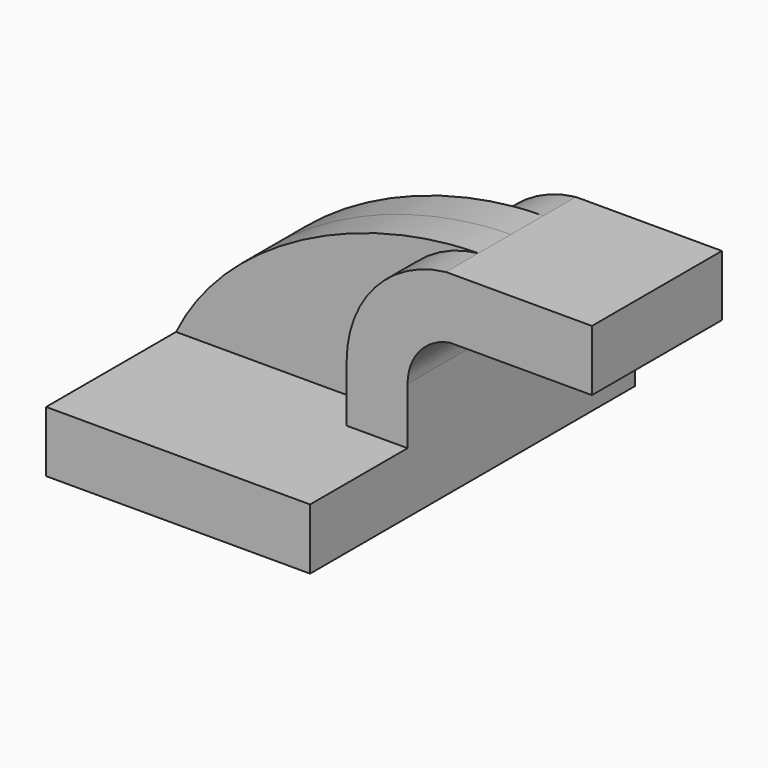
from build123d import *

# Parameters (mm, degrees)
F1_DEPTH = 63.5
F0_W     = 38.5974588745
F0_H     = 19.05
F2_DEPTH = 25.4
F3_DEPTH = 12.7


with BuildPart() as f1:
    # F0 (on Front) → F1 (new body, symmetric)
    with BuildSketch(Plane.XZ):
        Polygon((22.225, 9.525), (-41.275, 9.525), (-41.275, -9.525), (41.275, -9.525), (41.275, 9.525), align=None)
    extrude(amount=F1_DEPTH, both=True)

    # F0 (on Front) → F2 (join, symmetric)
    with BuildSketch(Plane.XZ):
        with BuildLine():
            Line((22.225, 27.2184735426), (22.225, 9.525))
            Line((22.225, 9.525), (41.275, 9.525))
            Line((41.275, 9.525), (41.275, 27.2184735426))
            ThreePointArc((41.275, 27.2184735426), (45.032594125, 37.4744035277), (54.5265401398, 42.8752))
            Line((54.5265401398, 42.8752), (60.325, 42.8752))
            Line((60.325, 42.8752), (60.325, 61.9252))
            Line((60.325, 61.9252), (53.2514408289, 61.9252))
            ThreePointArc((53.2514408289, 61.9252), (31.1124040659, 50.495054541), (22.225, 27.2184735426))
        make_face()
        with Locations((79.6237294372, 52.4002)):
            Rectangle(F0_W, F0_H)
    extrude(amount=F2_DEPTH, both=True)

    # F0 (on Front) → F3 (join, symmetric)
    with BuildSketch(Plane.XZ):
        with BuildLine():
            add(Edge.make_bspline(
                [(-41.275, 9.525), (-25.43013841, 42.0579750838), (17.2982045757, 61.6761899298), (53.2514408289, 61.9252)],
                knots=[0, 0, 0, 0, 108.0788090969, 108.0788090969, 108.0788090969, 108.0788090969], degree=3))
            Line((-41.275, 9.525), (22.225, 9.525))
            Line((22.225, 9.525), (22.225, 27.2184735426))
            ThreePointArc((22.225, 27.2184735426), (31.1124040659, 50.495054541), (53.2514408289, 61.9252))
        make_face()
    extrude(amount=F3_DEPTH, both=True)


solid = f1.part
